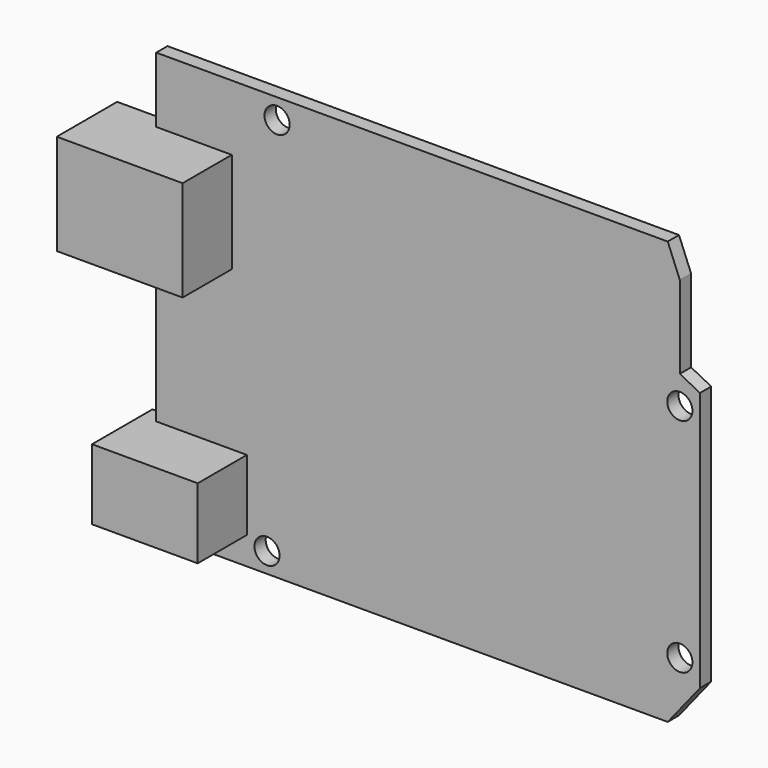
from build123d import *

# Parameters (mm, degrees)
F0_R     = 1.5875
F1_DEPTH = 1.778
F2_DEPTH = 9.525


with BuildPart() as f1:
    # F0 (on Front) → F1 (new body)
    with BuildSketch(Plane.XZ):
        Polygon((0, 0.3175), (0, 0), (64.516, 0), (68.58, 5.08), (68.58, 37.846), (66.04, 39.146852), (66.04, 49.560852), (64.516, 53.34), (0, 53.34), (0, 45.085), (9.525, 45.085), (9.525, 32.385), (0, 32.385), (0, 12.3825), (11.43, 12.3825), (11.43, 3.4925), (0, 3.4925), align=None)
        with Locations((13.97, 2.54)):
            Circle(F0_R, mode=Mode.SUBTRACT)
        with Locations((66.04, 7.62)):
            Circle(F0_R, mode=Mode.SUBTRACT)
        with Locations((15.24, 50.8)):
            Circle(F0_R, mode=Mode.SUBTRACT)
        with Locations((66.04, 35.56)):
            Circle(F0_R, mode=Mode.SUBTRACT)
    extrude(amount=F1_DEPTH)

    # F0 (on Front) → F2 (join)
    with BuildSketch(Plane.XZ):
        Polygon((-1.905, 3.4925), (0, 3.4925), (11.43, 3.4925), (11.43, 12.3825), (0, 12.3825), (-1.905, 12.3825), align=None)
        Polygon((-6.35, 32.385), (0, 32.385), (9.525, 32.385), (9.525, 45.085), (0, 45.085), (-6.35, 45.085), align=None)
    extrude(amount=F2_DEPTH)


solid = f1.part
